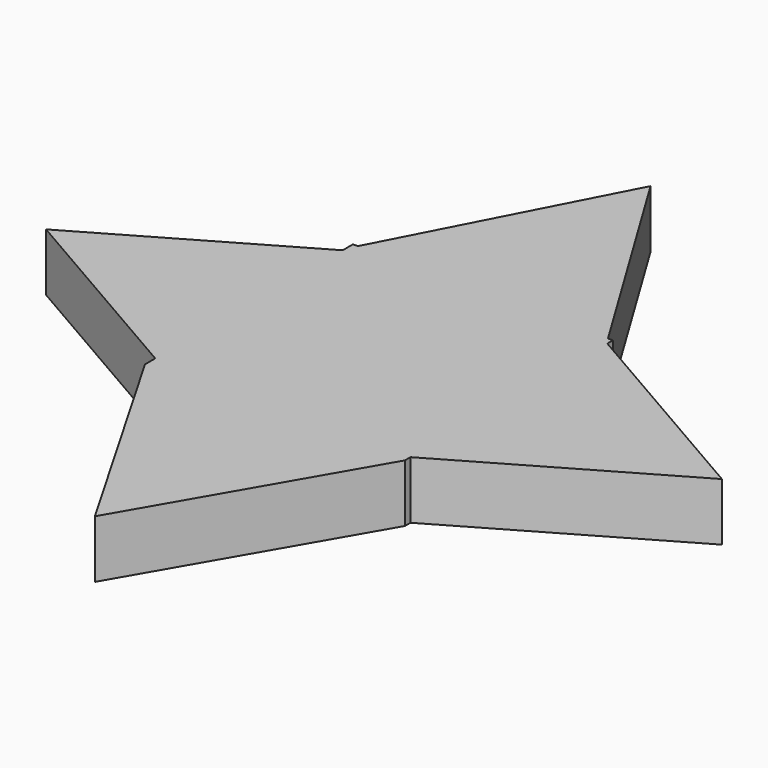
from build123d import *

# Parameters (mm, degrees)
F0_W     = 45
F0_H     = 45
F1_DEPTH = 10
F3_DEPTH = 10
F5_DEPTH = 10
F7_DEPTH = 10
F9_DEPTH = 10


with BuildPart() as f1:
    # F0 (on Top) → F1 (new body)
    with BuildSketch(Plane.XY):
        Rectangle(F0_W, F0_H)
    extrude(amount=F1_DEPTH)

    # F2 (on Top) → F3 (join)
    with BuildSketch(Plane.XY):
        Polygon((-21.650635, 22.5), (21.650635, 22.5), (-1.732051, 60.948017), align=None)
    extrude(amount=F3_DEPTH)

    # F4 (on Top) → F5 (join)
    with BuildSketch(Plane.XY):
        Polygon((22.5, -21.292087), (59.378976, 0), (22.5, 21.292087), align=None)
    extrude(amount=F5_DEPTH)

    # F6 (on Top) → F7 (join)
    with BuildSketch(Plane.XY):
        Polygon((-22.5, -22.5), (0, -61.471143), (22.5, -22.5), align=None)
    extrude(amount=F7_DEPTH)

    # F8 (on Top) → F9 (join)
    with BuildSketch(Plane.XY):
        Polygon((-22.5, 20.278981), (-57.624225, 0), (-22.5, -20.278981), align=None)
    extrude(amount=F9_DEPTH)


solid = f1.part
